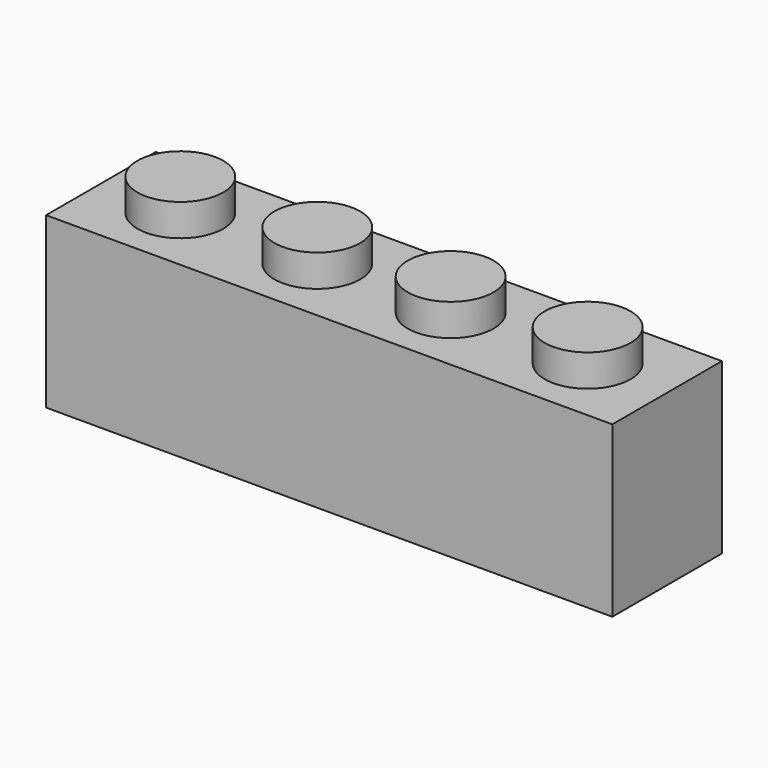
from build123d import *

# Parameters (mm, degrees)
F0_W     = 31.496
F0_H     = 7.62
F1_DEPTH = 9.4234
F2_R     = 2.3876
F3_DEPTH = 1.778


with BuildPart() as f1:
    # F0 (on Top) → F1 (new body)
    with BuildSketch(Plane.XY):
        Rectangle(F0_W, F0_H)
    extrude(amount=F1_DEPTH)

    # F2 (on face) → F3 (join)
    with BuildSketch(Plane.XY.offset(9.4234)):
        with Locations((11.3284, 0)):
            Circle(F2_R)
        with Locations((3.7084, 0)):
            Circle(F2_R)
        with Locations((-3.7084, 0)):
            Circle(F2_R)
        with Locations((-11.3284, 0)):
            Circle(F2_R)
    extrude(amount=F3_DEPTH)


solid = f1.part
